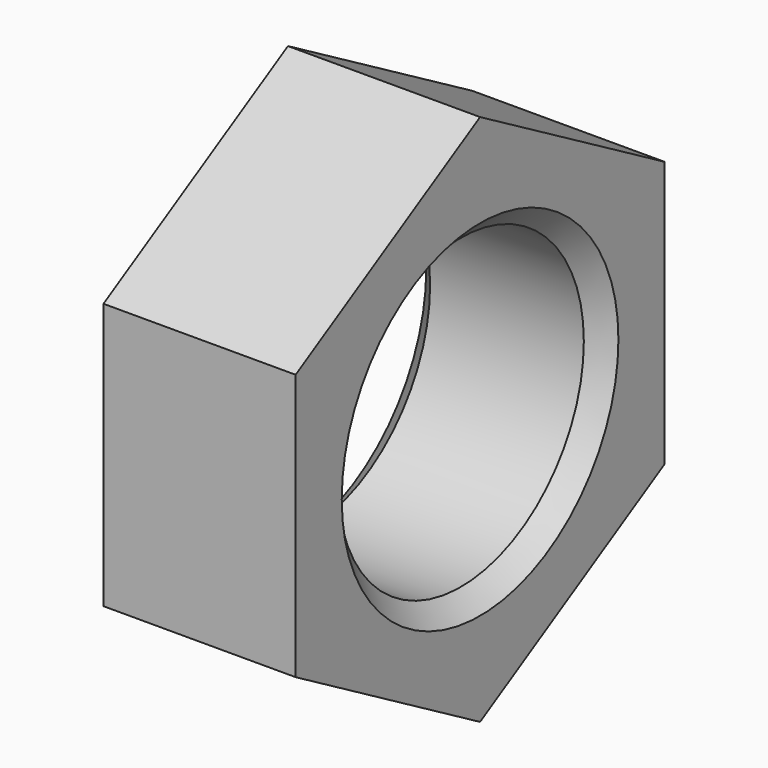
from build123d import *

# Parameters (mm, degrees)
F1_DEPTH = 5
F2_R     = 4
F3_DEPTH = 5.001
F4_SIZE  = 0.5


with BuildPart() as f1:
    # F0 (on Right) → F1 (new body)
    with BuildSketch(Plane.YZ):
        Polygon((0, -6.928203), (6, -3.464102), (6, 3.464102), (0, 6.928203), (-6, 3.464102), (-6, -3.464102), align=None)
    extrude(amount=-F1_DEPTH)

    # F2 (on face) → F3 (cut, through all)
    with BuildSketch(Plane.YZ):
        Circle(F2_R)
    extrude(amount=-F3_DEPTH, mode=Mode.SUBTRACT)

    # F4
    f4_edges = [f1.edges().sort_by_distance(p)[0] for p in [
        (0, -4, 0),
        (-2.5, 4, 0),
        (-5, -4, 0),
    ]]
    chamfer(f4_edges, length=F4_SIZE)


solid = f1.part
